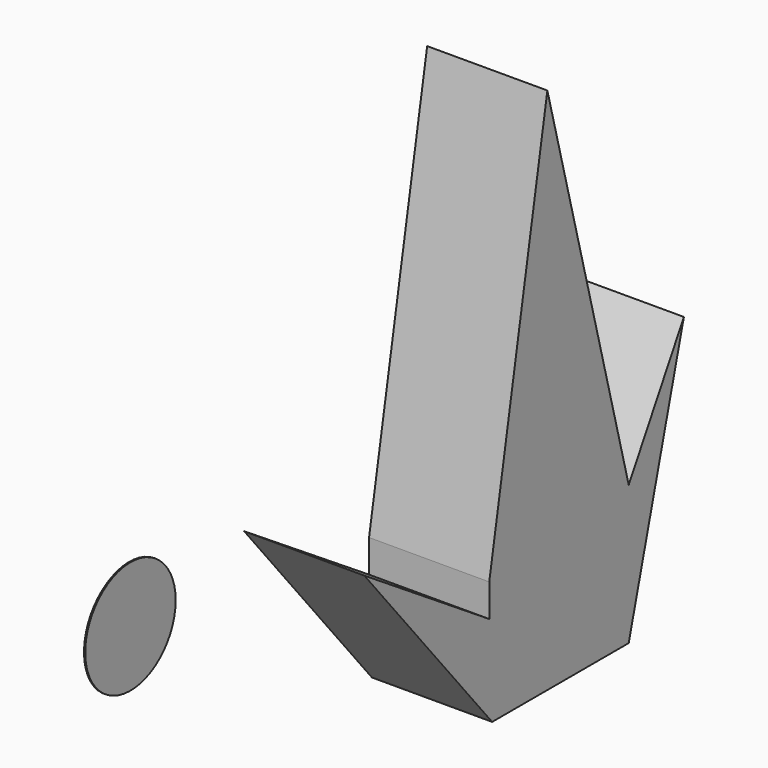
from build123d import *

# Parameters (mm, degrees)
F0_R     = 14.0897496008
F1_DEPTH = 0.254
F3_R     = 11.9464548424
F4_DEPTH = 0.254
F6_DEPTH = 25.4


with BuildPart() as f1:
    # F0 (on Right) → F1 (new body)
    with BuildSketch(Plane.YZ):
        with Locations((-60.5094321072, 38.5479815304)):
            Circle(F0_R)
    extrude(amount=F1_DEPTH)


with BuildPart() as f4:
    # F3 (on Right) → F4 (new body)
    with BuildSketch(Plane.YZ):
        with Locations((-43.1501194835, 35.6464311481)):
            Circle(F3_R)
    extrude(amount=F4_DEPTH)


with BuildPart() as f6:
    # F5 (on Right) → F6 (new body)
    with BuildSketch(Plane.YZ):
        Polygon((35.5388149619, 111.5346327424), (20.1922897249, 26.3614114374), (20.1922897249, 19.4554757327), (-12.8027312458, 40.9406162798), (20.9596306086, 0), (57.023961097, 0), (71.6031491756, 54.7524876893), (57.023961097, 29.4307190925), align=None)
    extrude(amount=F6_DEPTH)


solid = Compound([f4.part, f6.part])
